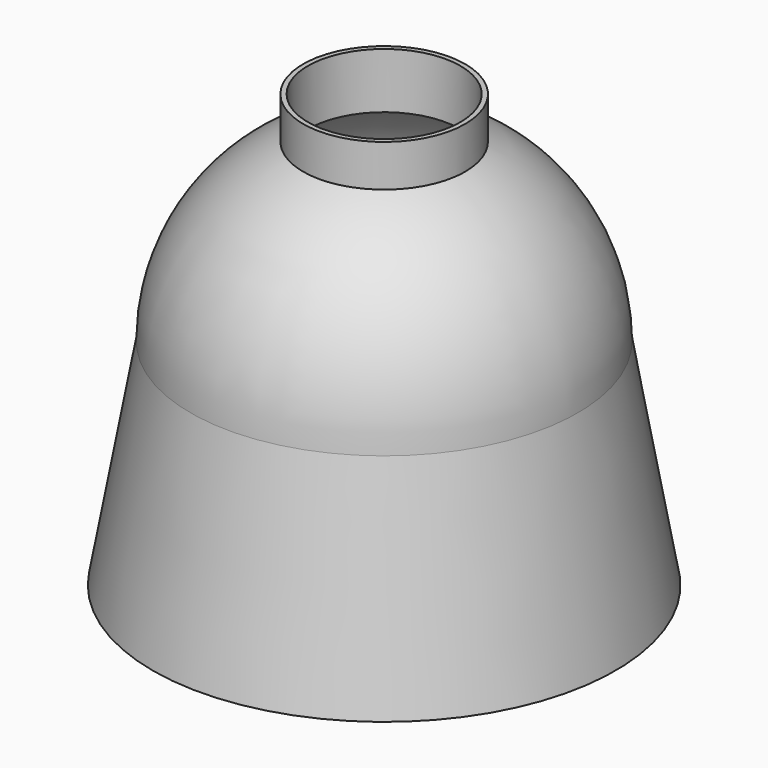
from build123d import *

# Parameters (mm, degrees)
F2_R     = 21.2725
F2_R_2   = 20
F3_DEPTH = 57.15
F4_DEPTH = 57.151
F5_DEPTH = 42.545


with BuildPart() as f1:
    # F0 (on Front) → F1 (revolve)
    with BuildSketch(Plane.XZ):
        with BuildLine():
            Line((0, 49.53), (0, 50.8))
            ThreePointArc((0, 50.8), (-35.921024, 35.921024), (-50.8, 0))
            Line((-50.8, 0), (-49.53, 0))
            ThreePointArc((-49.53, 0), (-35.022999, 35.022999), (0, 49.53))
        make_face()
        Polygon((-49.53, 0), (-50.8, 0), (-60.723993, -56.281763), (-59.453993, -56.281763), align=None)
    revolve(axis=Axis((0, 0, -2.740882), (0, 0, -1)))

    # F2 (on Top) → F3 (join)
    with BuildSketch(Plane.XY):
        Circle(F2_R)
        Circle(F2_R_2, mode=Mode.SUBTRACT)
    extrude(amount=F3_DEPTH)

    # F2 (on Top) → F4 (cut, through all)
    with BuildSketch(Plane.XY):
        Circle(F2_R_2)
    extrude(amount=F4_DEPTH, mode=Mode.SUBTRACT)

    # F2 (on Top) → F5 (cut)
    with BuildSketch(Plane.XY):
        Circle(F2_R_2)
        Circle(F2_R)
        Circle(F2_R_2, mode=Mode.SUBTRACT)
    extrude(amount=F5_DEPTH, mode=Mode.SUBTRACT)


solid = f1.part
